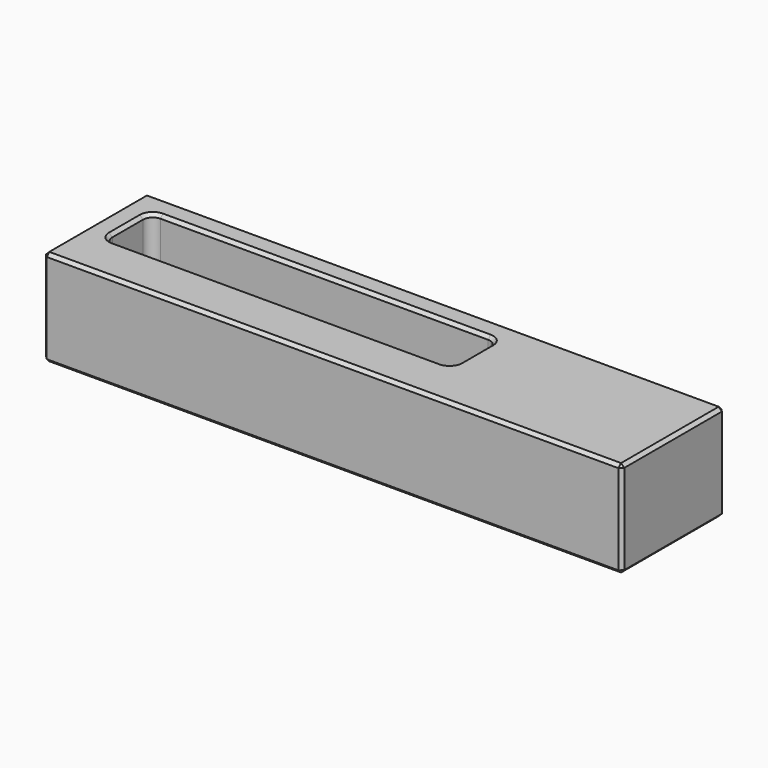
from build123d import *

# Parameters (mm, degrees)
F0_W     = 40
F0_H     = 30
F1_DEPTH = 180
F3_DEPTH = 20
F4_SIZE  = 1


with BuildPart() as f1:
    # F0 (on Right) → F1 (new body)
    with BuildSketch(Plane.YZ):
        Rectangle(F0_W, F0_H)
    extrude(amount=F1_DEPTH)

    # F2 (on face) → F3 (cut)
    with BuildSketch(Plane.XY.offset(15)):
        with BuildLine():
            Line((10, -5), (112, -5))
            ThreePointArc((112, -5), (114.1213203436, -4.1213203436), (115, -2))
            Line((115, -2), (115, 10))
            ThreePointArc((115, 10), (114.1213203436, 12.1213203436), (112, 13))
            Line((112, 13), (10, 13))
            ThreePointArc((10, 13), (7.8786796564, 12.1213203436), (7, 10))
            Line((7, 10), (7, -2))
            ThreePointArc((7, -2), (7.8786796564, -4.1213203436), (10, -5))
        make_face()
    extrude(amount=-F3_DEPTH, mode=Mode.SUBTRACT)

    # F4
    f4_edges = [f1.edges().sort_by_distance(p)[0] for p in [
        (90, 20, -15),
        (90, 20, 15),
        (0, 20, 0),
        (180, 20, 0),
        (0, 0, 15),
        (0, -20, 0),
        (0, 0, -15),
        (90, -20, 15),
        (180, 0, 15),
        (61, 13, 15),
        (115, 4, 15),
        (180, -20, 0),
        (90, -20, -15),
        (7.87868, 12.12132, 15),
        (114.12132, 12.12132, 15),
        (114.12132, -4.12132, 15),
        (61, -5, 15),
        (7.87868, -4.12132, 15),
        (7, 4, 15),
        (180, 0, -15),
    ]]
    chamfer(f4_edges, length=F4_SIZE)


solid = f1.part
